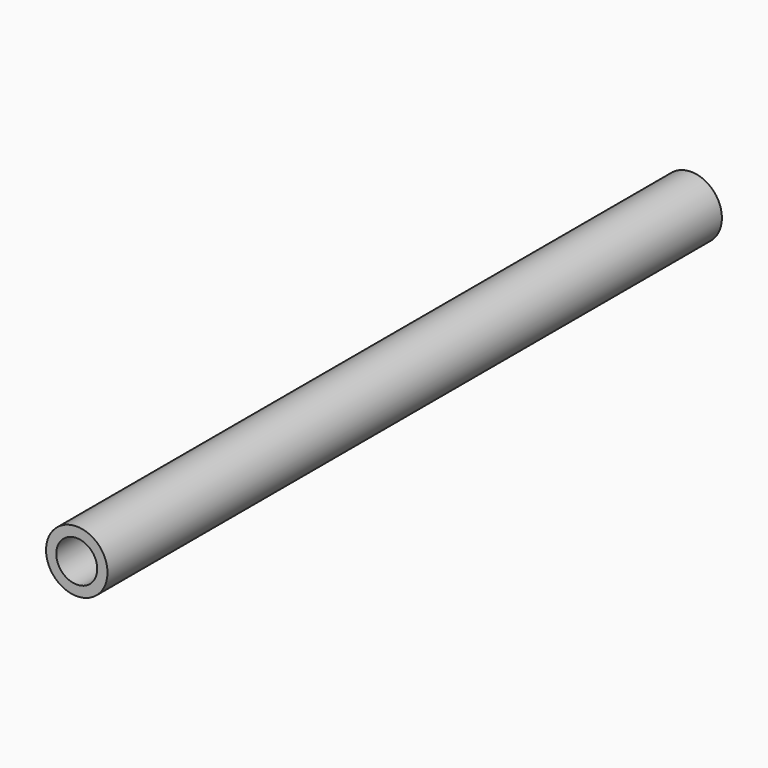
from build123d import *

# Parameters (mm, degrees)
CYLINDER_R          = 12.7
CYLINDER_DEPTH      = 476.25
CYLINDER_ROLL_ANGLE = 90
THICKNESS001_T      = 6.35


with BuildPart() as part:
    # Cylinder → Cylinder (new body)
    with BuildSketch(Plane.XY):
        Circle(CYLINDER_R)
    extrude(amount=CYLINDER_DEPTH)


with BuildPart() as part_1:
    # Cylinder roll: moved
    add(part.part.rotate(Axis((0, 0, 0), (1, 0, 0)), CYLINDER_ROLL_ANGLE))


with BuildPart() as part_2:
    # Cylinder placement: moved
    add(part_1.part)

    # Thickness001
    thickness001_openings = [part_2.faces().sort_by_distance(p)[0] for p in [
        (0, 0, 0),
        (0, -476.25, 0),
    ]]
    offset(amount=THICKNESS001_T, openings=thickness001_openings)


solid = part_2.part
